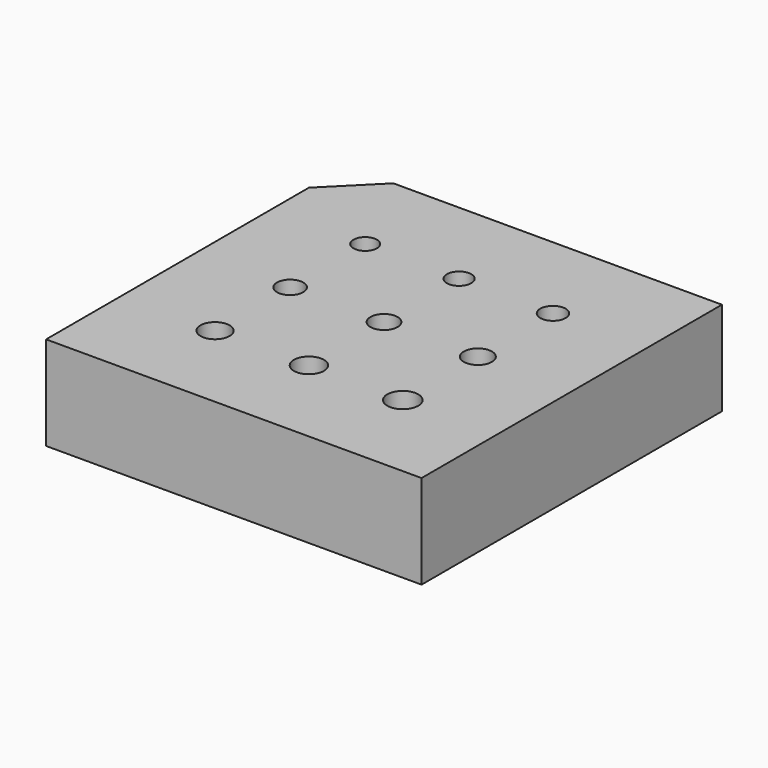
from build123d import *

# Parameters (mm, degrees)
F0_R     = 1.55
F0_R_2   = 1.6
F0_R_3   = 1.65
F0_R_4   = 1.4
F0_R_5   = 1.25
F0_R_6   = 1.45
F0_R_7   = 1.5
F0_R_8   = 1.3
F0_R_9   = 1.35
F1_DEPTH = 10


with BuildPart() as f1:
    # F0 (on Top) → F1 (new body)
    with BuildSketch(Plane.XY):
        Polygon((-15, 20), (-20, 15), (-20, -20), (20, -20), (20, 20), align=None)
        with Locations((-10, -10)):
            Circle(F0_R, mode=Mode.SUBTRACT)
        with Locations((0, -10)):
            Circle(F0_R_2, mode=Mode.SUBTRACT)
        with Locations((10, -10)):
            Circle(F0_R_3, mode=Mode.SUBTRACT)
        with Locations((-10, 0)):
            Circle(F0_R_4, mode=Mode.SUBTRACT)
        with Locations((-10, 10)):
            Circle(F0_R_5, mode=Mode.SUBTRACT)
        Circle(F0_R_6, mode=Mode.SUBTRACT)
        with Locations((10, 0)):
            Circle(F0_R_7, mode=Mode.SUBTRACT)
        with Locations((0, 10)):
            Circle(F0_R_8, mode=Mode.SUBTRACT)
        with Locations((10, 10)):
            Circle(F0_R_9, mode=Mode.SUBTRACT)
    extrude(amount=F1_DEPTH)


solid = f1.part
